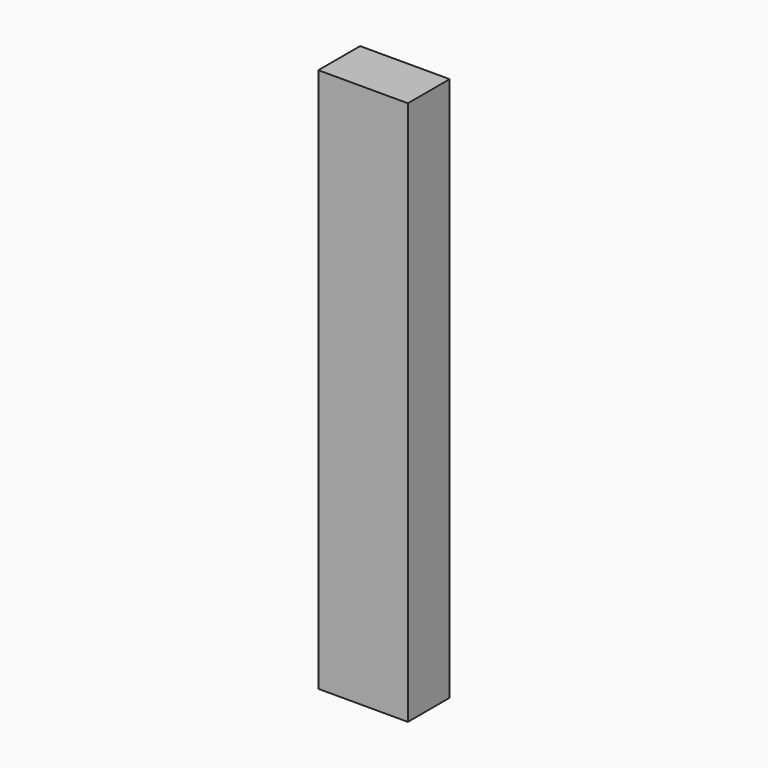
from build123d import *

# Parameters (mm, degrees)
F0_W     = 120
F0_H     = 730
F1_DEPTH = 70


with BuildPart() as f1:
    # F0 (on Front) → F1 (new body)
    with BuildSketch(Plane.XZ):
        with Locations((60, 365)):
            Rectangle(F0_W, F0_H)
    extrude(amount=F1_DEPTH)


with BuildPart() as f1_1:
    # F3: moved
    add(f1.part.moved(Location((0, 0, 730))))


with BuildPart() as f1_2:
    # F4: moved
    add(f1_1.part.moved(Location((0, -25, 0))))


solid = f1_2.part
